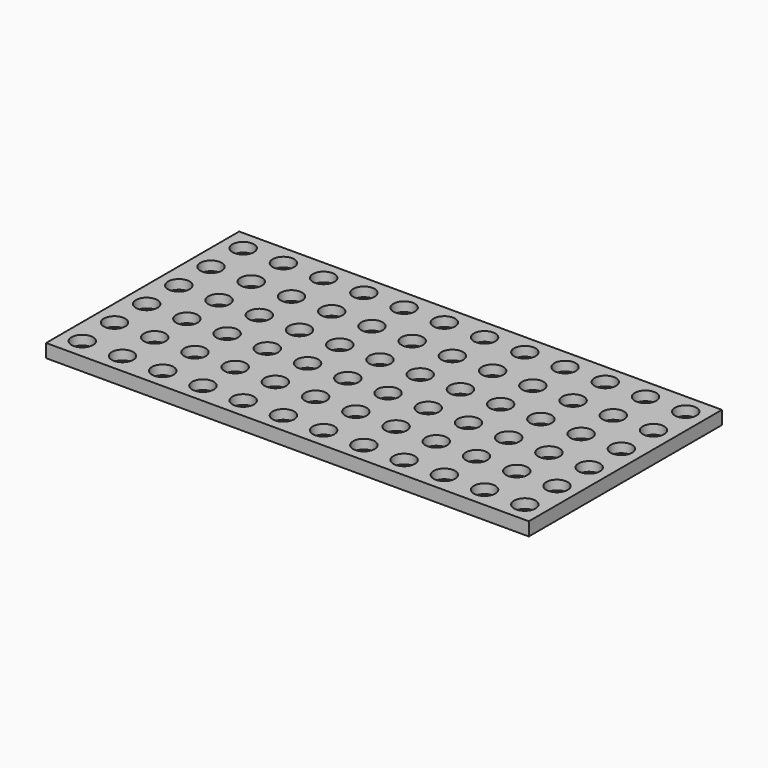
from build123d import *

# Parameters (mm, degrees)
SKETCH_W                            = 180
SKETCH_H                            = 90
PAD_DEPTH                           = 5
SKETCH001_R                         = 1.6
POCKET_DEPTH                        = 407.617443
SKETCH001_LINEARPATTERN_2_R         = 1.6
POCKET_LINEARPATTERN_2_DEPTH        = 407.617443
SKETCH001_LINEARPATTERN_3_R         = 1.6
POCKET_LINEARPATTERN_3_DEPTH        = 407.617443
SKETCH001_LINEARPATTERN_4_R         = 1.6
POCKET_LINEARPATTERN_4_DEPTH        = 407.617443
SKETCH001_LINEARPATTERN_5_R         = 1.6
POCKET_LINEARPATTERN_5_DEPTH        = 407.617443
SKETCH001_LINEARPATTERN_6_R         = 1.6
POCKET_LINEARPATTERN_6_DEPTH        = 407.617443
SKETCH001_LINEARPATTERN_7_R         = 1.6
POCKET_LINEARPATTERN_7_DEPTH        = 407.617443
SKETCH001_LINEARPATTERN_8_R         = 1.6
POCKET_LINEARPATTERN_8_DEPTH        = 407.617443
SKETCH001_LINEARPATTERN_9_R         = 1.6
POCKET_LINEARPATTERN_9_DEPTH        = 407.617443
SKETCH001_LINEARPATTERN_10_R        = 1.6
POCKET_LINEARPATTERN_10_DEPTH       = 407.617443
SKETCH001_LINEARPATTERN_11_R        = 1.6
POCKET_LINEARPATTERN_11_DEPTH       = 407.617443
SKETCH001_LINEARPATTERN_12_R        = 1.6
POCKET_LINEARPATTERN_12_DEPTH       = 407.617443
LINEARPATTERN001_COUNT              = 6
LINEARPATTERN001_PITCH              = 15
SKETCH002_R                         = 4
POCKET001_DEPTH                     = 3.5
SKETCH002_LINEARPATTERN002_2_R      = 4
POCKET001_LINEARPATTERN002_2_DEPTH  = 3.5
SKETCH002_LINEARPATTERN002_3_R      = 4
POCKET001_LINEARPATTERN002_3_DEPTH  = 3.5
SKETCH002_LINEARPATTERN002_4_R      = 4
POCKET001_LINEARPATTERN002_4_DEPTH  = 3.5
SKETCH002_LINEARPATTERN002_5_R      = 4
POCKET001_LINEARPATTERN002_5_DEPTH  = 3.5
SKETCH002_LINEARPATTERN002_6_R      = 4
POCKET001_LINEARPATTERN002_6_DEPTH  = 3.5
SKETCH002_LINEARPATTERN002_7_R      = 4
POCKET001_LINEARPATTERN002_7_DEPTH  = 3.5
SKETCH002_LINEARPATTERN002_8_R      = 4
POCKET001_LINEARPATTERN002_8_DEPTH  = 3.5
SKETCH002_LINEARPATTERN002_9_R      = 4
POCKET001_LINEARPATTERN002_9_DEPTH  = 3.5
SKETCH002_LINEARPATTERN002_10_R     = 4
POCKET001_LINEARPATTERN002_10_DEPTH = 3.5
SKETCH002_LINEARPATTERN002_11_R     = 4
POCKET001_LINEARPATTERN002_11_DEPTH = 3.5
SKETCH002_LINEARPATTERN002_12_R     = 4
POCKET001_LINEARPATTERN002_12_DEPTH = 3.5
LINEARPATTERN003_COUNT              = 6
LINEARPATTERN003_PITCH              = 15


with BuildPart() as part:
    # Sketch → Pad (new body)
    with BuildSketch(Plane.XY):
        with Locations((90, 45)):
            Rectangle(SKETCH_W, SKETCH_H)
    extrude(amount=PAD_DEPTH)

    # Sketch001 (on Face6 of Pad) → Pocket (cut, through all)
    with BuildSketch(Plane.XY.offset(5)):
        with Locations((7.5, 7.5)):
            Circle(SKETCH001_R)
    pocket = extrude(amount=-POCKET_DEPTH, mode=Mode.SUBTRACT)

    # Sketch001 LinearPattern 2 → Pocket LinearPattern 2 (cut, through all)
    with BuildSketch(Plane(origin=(15, 0, 5), x_dir=(1, 0, 0), z_dir=(0, 0, 1))):
        with Locations((7.5, 7.5)):
            Circle(SKETCH001_LINEARPATTERN_2_R)
    pocket_linearpattern_2 = extrude(amount=-POCKET_LINEARPATTERN_2_DEPTH, mode=Mode.SUBTRACT)

    # Sketch001 LinearPattern 3 → Pocket LinearPattern 3 (cut, through all)
    with BuildSketch(Plane(origin=(30, 0, 5), x_dir=(1, 0, 0), z_dir=(0, 0, 1))):
        with Locations((7.5, 7.5)):
            Circle(SKETCH001_LINEARPATTERN_3_R)
    pocket_linearpattern_3 = extrude(amount=-POCKET_LINEARPATTERN_3_DEPTH, mode=Mode.SUBTRACT)

    # Sketch001 LinearPattern 4 → Pocket LinearPattern 4 (cut, through all)
    with BuildSketch(Plane(origin=(45, 0, 5), x_dir=(1, 0, 0), z_dir=(0, 0, 1))):
        with Locations((7.5, 7.5)):
            Circle(SKETCH001_LINEARPATTERN_4_R)
    pocket_linearpattern_4 = extrude(amount=-POCKET_LINEARPATTERN_4_DEPTH, mode=Mode.SUBTRACT)

    # Sketch001 LinearPattern 5 → Pocket LinearPattern 5 (cut, through all)
    with BuildSketch(Plane(origin=(60, 0, 5), x_dir=(1, 0, 0), z_dir=(0, 0, 1))):
        with Locations((7.5, 7.5)):
            Circle(SKETCH001_LINEARPATTERN_5_R)
    pocket_linearpattern_5 = extrude(amount=-POCKET_LINEARPATTERN_5_DEPTH, mode=Mode.SUBTRACT)

    # Sketch001 LinearPattern 6 → Pocket LinearPattern 6 (cut, through all)
    with BuildSketch(Plane(origin=(75, 0, 5), x_dir=(1, 0, 0), z_dir=(0, 0, 1))):
        with Locations((7.5, 7.5)):
            Circle(SKETCH001_LINEARPATTERN_6_R)
    pocket_linearpattern_6 = extrude(amount=-POCKET_LINEARPATTERN_6_DEPTH, mode=Mode.SUBTRACT)

    # Sketch001 LinearPattern 7 → Pocket LinearPattern 7 (cut, through all)
    with BuildSketch(Plane(origin=(90, 0, 5), x_dir=(1, 0, 0), z_dir=(0, 0, 1))):
        with Locations((7.5, 7.5)):
            Circle(SKETCH001_LINEARPATTERN_7_R)
    pocket_linearpattern_7 = extrude(amount=-POCKET_LINEARPATTERN_7_DEPTH, mode=Mode.SUBTRACT)

    # Sketch001 LinearPattern 8 → Pocket LinearPattern 8 (cut, through all)
    with BuildSketch(Plane(origin=(105, 0, 5), x_dir=(1, 0, 0), z_dir=(0, 0, 1))):
        with Locations((7.5, 7.5)):
            Circle(SKETCH001_LINEARPATTERN_8_R)
    pocket_linearpattern_8 = extrude(amount=-POCKET_LINEARPATTERN_8_DEPTH, mode=Mode.SUBTRACT)

    # Sketch001 LinearPattern 9 → Pocket LinearPattern 9 (cut, through all)
    with BuildSketch(Plane(origin=(120, 0, 5), x_dir=(1, 0, 0), z_dir=(0, 0, 1))):
        with Locations((7.5, 7.5)):
            Circle(SKETCH001_LINEARPATTERN_9_R)
    pocket_linearpattern_9 = extrude(amount=-POCKET_LINEARPATTERN_9_DEPTH, mode=Mode.SUBTRACT)

    # Sketch001 LinearPattern 10 → Pocket LinearPattern 10 (cut, through all)
    with BuildSketch(Plane(origin=(135, 0, 5), x_dir=(1, 0, 0), z_dir=(0, 0, 1))):
        with Locations((7.5, 7.5)):
            Circle(SKETCH001_LINEARPATTERN_10_R)
    pocket_linearpattern_10 = extrude(amount=-POCKET_LINEARPATTERN_10_DEPTH, mode=Mode.SUBTRACT)

    # Sketch001 LinearPattern 11 → Pocket LinearPattern 11 (cut, through all)
    with BuildSketch(Plane(origin=(150, 0, 5), x_dir=(1, 0, 0), z_dir=(0, 0, 1))):
        with Locations((7.5, 7.5)):
            Circle(SKETCH001_LINEARPATTERN_11_R)
    pocket_linearpattern_11 = extrude(amount=-POCKET_LINEARPATTERN_11_DEPTH, mode=Mode.SUBTRACT)

    # Sketch001 LinearPattern 12 → Pocket LinearPattern 12 (cut, through all)
    with BuildSketch(Plane(origin=(165, 0, 5), x_dir=(1, 0, 0), z_dir=(0, 0, 1))):
        with Locations((7.5, 7.5)):
            Circle(SKETCH001_LINEARPATTERN_12_R)
    pocket_linearpattern_12 = extrude(amount=-POCKET_LINEARPATTERN_12_DEPTH, mode=Mode.SUBTRACT)

    # LinearPattern001: Pocket, Pocket LinearPattern 2, Pocket LinearPattern 3, Pocket LinearPattern 4, Pocket LinearPattern 5, Pocket LinearPattern 6, Pocket LinearPattern 7, Pocket LinearPattern 8, Pocket LinearPattern 9, Pocket LinearPattern 10, Pocket LinearPattern 11, Pocket LinearPattern 12 ×6
    with Locations(*[(0, i * LINEARPATTERN001_PITCH, 0) for i in range(1, LINEARPATTERN001_COUNT)]):
        add(pocket, mode=Mode.SUBTRACT)
        add(pocket_linearpattern_2, mode=Mode.SUBTRACT)
        add(pocket_linearpattern_3, mode=Mode.SUBTRACT)
        add(pocket_linearpattern_4, mode=Mode.SUBTRACT)
        add(pocket_linearpattern_5, mode=Mode.SUBTRACT)
        add(pocket_linearpattern_6, mode=Mode.SUBTRACT)
        add(pocket_linearpattern_7, mode=Mode.SUBTRACT)
        add(pocket_linearpattern_8, mode=Mode.SUBTRACT)
        add(pocket_linearpattern_9, mode=Mode.SUBTRACT)
        add(pocket_linearpattern_10, mode=Mode.SUBTRACT)
        add(pocket_linearpattern_11, mode=Mode.SUBTRACT)
        add(pocket_linearpattern_12, mode=Mode.SUBTRACT)

    # Sketch002 (on Face5 of MultiTransform) → Pocket001 (cut)
    with BuildSketch(Plane.XY.offset(5)):
        with Locations((7.5, 7.5)):
            Circle(SKETCH002_R)
    pocket001 = extrude(amount=-POCKET001_DEPTH, mode=Mode.SUBTRACT)

    # Sketch002 LinearPattern002 2 → Pocket001 LinearPattern002 2 (cut)
    with BuildSketch(Plane(origin=(15, 0, 5), x_dir=(1, 0, 0), z_dir=(0, 0, 1))):
        with Locations((7.5, 7.5)):
            Circle(SKETCH002_LINEARPATTERN002_2_R)
    pocket001_linearpattern002_2 = extrude(amount=-POCKET001_LINEARPATTERN002_2_DEPTH, mode=Mode.SUBTRACT)

    # Sketch002 LinearPattern002 3 → Pocket001 LinearPattern002 3 (cut)
    with BuildSketch(Plane(origin=(30, 0, 5), x_dir=(1, 0, 0), z_dir=(0, 0, 1))):
        with Locations((7.5, 7.5)):
            Circle(SKETCH002_LINEARPATTERN002_3_R)
    pocket001_linearpattern002_3 = extrude(amount=-POCKET001_LINEARPATTERN002_3_DEPTH, mode=Mode.SUBTRACT)

    # Sketch002 LinearPattern002 4 → Pocket001 LinearPattern002 4 (cut)
    with BuildSketch(Plane(origin=(45, 0, 5), x_dir=(1, 0, 0), z_dir=(0, 0, 1))):
        with Locations((7.5, 7.5)):
            Circle(SKETCH002_LINEARPATTERN002_4_R)
    pocket001_linearpattern002_4 = extrude(amount=-POCKET001_LINEARPATTERN002_4_DEPTH, mode=Mode.SUBTRACT)

    # Sketch002 LinearPattern002 5 → Pocket001 LinearPattern002 5 (cut)
    with BuildSketch(Plane(origin=(60, 0, 5), x_dir=(1, 0, 0), z_dir=(0, 0, 1))):
        with Locations((7.5, 7.5)):
            Circle(SKETCH002_LINEARPATTERN002_5_R)
    pocket001_linearpattern002_5 = extrude(amount=-POCKET001_LINEARPATTERN002_5_DEPTH, mode=Mode.SUBTRACT)

    # Sketch002 LinearPattern002 6 → Pocket001 LinearPattern002 6 (cut)
    with BuildSketch(Plane(origin=(75, 0, 5), x_dir=(1, 0, 0), z_dir=(0, 0, 1))):
        with Locations((7.5, 7.5)):
            Circle(SKETCH002_LINEARPATTERN002_6_R)
    pocket001_linearpattern002_6 = extrude(amount=-POCKET001_LINEARPATTERN002_6_DEPTH, mode=Mode.SUBTRACT)

    # Sketch002 LinearPattern002 7 → Pocket001 LinearPattern002 7 (cut)
    with BuildSketch(Plane(origin=(90, 0, 5), x_dir=(1, 0, 0), z_dir=(0, 0, 1))):
        with Locations((7.5, 7.5)):
            Circle(SKETCH002_LINEARPATTERN002_7_R)
    pocket001_linearpattern002_7 = extrude(amount=-POCKET001_LINEARPATTERN002_7_DEPTH, mode=Mode.SUBTRACT)

    # Sketch002 LinearPattern002 8 → Pocket001 LinearPattern002 8 (cut)
    with BuildSketch(Plane(origin=(105, 0, 5), x_dir=(1, 0, 0), z_dir=(0, 0, 1))):
        with Locations((7.5, 7.5)):
            Circle(SKETCH002_LINEARPATTERN002_8_R)
    pocket001_linearpattern002_8 = extrude(amount=-POCKET001_LINEARPATTERN002_8_DEPTH, mode=Mode.SUBTRACT)

    # Sketch002 LinearPattern002 9 → Pocket001 LinearPattern002 9 (cut)
    with BuildSketch(Plane(origin=(120, 0, 5), x_dir=(1, 0, 0), z_dir=(0, 0, 1))):
        with Locations((7.5, 7.5)):
            Circle(SKETCH002_LINEARPATTERN002_9_R)
    pocket001_linearpattern002_9 = extrude(amount=-POCKET001_LINEARPATTERN002_9_DEPTH, mode=Mode.SUBTRACT)

    # Sketch002 LinearPattern002 10 → Pocket001 LinearPattern002 10 (cut)
    with BuildSketch(Plane(origin=(135, 0, 5), x_dir=(1, 0, 0), z_dir=(0, 0, 1))):
        with Locations((7.5, 7.5)):
            Circle(SKETCH002_LINEARPATTERN002_10_R)
    pocket001_linearpattern002_10 = extrude(amount=-POCKET001_LINEARPATTERN002_10_DEPTH, mode=Mode.SUBTRACT)

    # Sketch002 LinearPattern002 11 → Pocket001 LinearPattern002 11 (cut)
    with BuildSketch(Plane(origin=(150, 0, 5), x_dir=(1, 0, 0), z_dir=(0, 0, 1))):
        with Locations((7.5, 7.5)):
            Circle(SKETCH002_LINEARPATTERN002_11_R)
    pocket001_linearpattern002_11 = extrude(amount=-POCKET001_LINEARPATTERN002_11_DEPTH, mode=Mode.SUBTRACT)

    # Sketch002 LinearPattern002 12 → Pocket001 LinearPattern002 12 (cut)
    with BuildSketch(Plane(origin=(165, 0, 5), x_dir=(1, 0, 0), z_dir=(0, 0, 1))):
        with Locations((7.5, 7.5)):
            Circle(SKETCH002_LINEARPATTERN002_12_R)
    pocket001_linearpattern002_12 = extrude(amount=-POCKET001_LINEARPATTERN002_12_DEPTH, mode=Mode.SUBTRACT)

    # LinearPattern003: Pocket001, Pocket001 LinearPattern002 2, Pocket001 LinearPattern002 3, Pocket001 LinearPattern002 4, Pocket001 LinearPattern002 5, Pocket001 LinearPattern002 6, Pocket001 LinearPattern002 7, Pocket001 LinearPattern002 8, Pocket001 LinearPattern002 9, Pocket001 LinearPattern002 10, Pocket001 LinearPattern002 11, Pocket001 LinearPattern002 12 ×6
    with Locations(*[(0, i * LINEARPATTERN003_PITCH, 0) for i in range(1, LINEARPATTERN003_COUNT)]):
        add(pocket001, mode=Mode.SUBTRACT)
        add(pocket001_linearpattern002_2, mode=Mode.SUBTRACT)
        add(pocket001_linearpattern002_3, mode=Mode.SUBTRACT)
        add(pocket001_linearpattern002_4, mode=Mode.SUBTRACT)
        add(pocket001_linearpattern002_5, mode=Mode.SUBTRACT)
        add(pocket001_linearpattern002_6, mode=Mode.SUBTRACT)
        add(pocket001_linearpattern002_7, mode=Mode.SUBTRACT)
        add(pocket001_linearpattern002_8, mode=Mode.SUBTRACT)
        add(pocket001_linearpattern002_9, mode=Mode.SUBTRACT)
        add(pocket001_linearpattern002_10, mode=Mode.SUBTRACT)
        add(pocket001_linearpattern002_11, mode=Mode.SUBTRACT)
        add(pocket001_linearpattern002_12, mode=Mode.SUBTRACT)


solid = part.part
